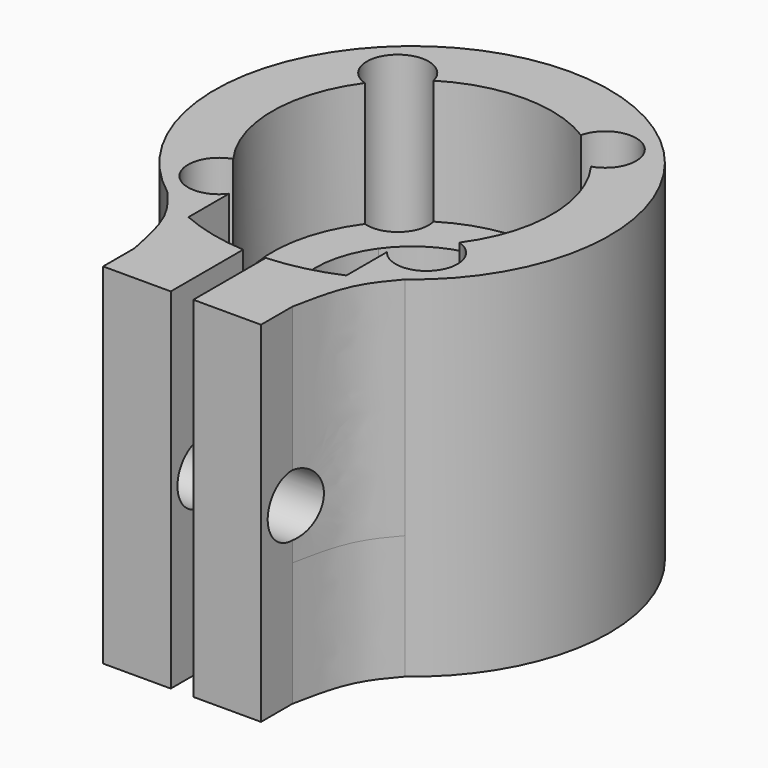
from build123d import *

# Parameters (mm, degrees)
F1_DEPTH      = 6.985
F2_DEPTH      = 12.7
F3_R          = 1.7399
F4_DEPTH      = 25.4
F4_DEPTH_BACK = 25.4


with BuildPart() as f1:
    # F0 (on Top) → F1 (new body)
    with BuildSketch(Plane.XY):
        with BuildLine():
            ThreePointArc((-6.6861946277, -8.8759482677), (-5.6039387911, -9.5960161669), (-4.445, -10.184774482))
            Line((-4.445, -10.184774482), (-4.445, -7.326322721))
            ThreePointArc((-4.445, -7.326322721), (-7.2583236845, -7.2997742217), (-6.3683207306, -4.6308063091))
            ThreePointArc((-6.3683207306, -4.6308063091), (-7.874, 0), (-6.3683207306, 4.6308063091))
            ThreePointArc((-6.3683207306, 4.6308063091), (-7.2583236845, 7.2997742217), (-4.445, 7.326322721))
            Line((-4.445, 7.326322721), (-4.445, 10.184774482))
            ThreePointArc((-4.445, 10.184774482), (-11.0364696074, 1.2976882733), (-6.6861946277, -8.8759482677))
        make_face()
        with BuildLine():
            Line((-0.635, 7.8483533942), (-0.635, 11.0943423081))
            ThreePointArc((-0.635, 11.0943423081), (-2.5803930723, 10.808756998), (-4.445, 10.184774482))
            Line((-4.445, 10.184774482), (-4.445, 7.326322721))
            ThreePointArc((-4.445, 7.326322721), (-4.264959614, 7.0241706334), (-4.149365906, 6.6919831573))
            ThreePointArc((-4.149365906, 6.6919831573), (-2.4610642641, 7.4795079175), (-0.635, 7.8483533942))
        make_face()
        with BuildLine():
            Line((4.445, 7.326322721), (4.445, 10.184774482))
            ThreePointArc((4.445, 10.184774482), (2.5803930723, 10.808756998), (0.635, 11.0943423081))
            Line((0.635, 11.0943423081), (0.635, 7.8483533942))
            ThreePointArc((0.635, 7.8483533942), (2.4610642641, 7.4795079175), (4.149365906, 6.6919831573))
            ThreePointArc((4.149365906, 6.6919831573), (4.264959614, 7.0241706334), (4.445, 7.326322721))
        make_face()
        with BuildLine():
            ThreePointArc((4.445, -10.184774482), (5.6039387911, -9.5960161669), (6.6861946277, -8.8759482677))
            ThreePointArc((6.6861946277, -8.8759482677), (9.9445460945, -4.959199454), (11.1125, 0))
            ThreePointArc((11.1125, 0), (9.2973845449, 6.0865669203), (4.445, 10.184774482))
            Line((4.445, 10.184774482), (4.445, 7.326322721))
            ThreePointArc((4.445, 7.326322721), (6.3881738322, 7.9411428381), (7.5819, 6.2891906127))
            ThreePointArc((7.5819, 6.2891906127), (7.2461006818, 5.2616920554), (6.3683207306, 4.6308063091))
            ThreePointArc((6.3683207306, 4.6308063091), (7.4881250468, 2.4347195493), (7.874, 0))
            ThreePointArc((7.874, 0), (7.4881250468, -2.4347195493), (6.3683207306, -4.6308063091))
            ThreePointArc((6.3683207306, -4.6308063091), (7.2461006818, -5.2616920554), (7.5819, -6.2891906127))
            ThreePointArc((7.5819, -6.2891906127), (6.3881738322, -7.9411428381), (4.445, -7.326322721))
            Line((4.445, -7.326322721), (4.445, -10.184774482))
        make_face()
        with BuildLine():
            Line((0.635, 7.8483533942), (0.635, 11.0943423081))
            ThreePointArc((0.635, 11.0943423081), (0, 11.1125), (-0.635, 11.0943423081))
            Line((-0.635, 11.0943423081), (-0.635, 7.8483533942))
            ThreePointArc((-0.635, 7.8483533942), (0, 7.874), (0.635, 7.8483533942))
        make_face()
        with BuildLine():
            Line((-4.445, -13.9827691019), (-4.445, -10.184774482))
            ThreePointArc((-4.445, -10.184774482), (-5.6039387911, -9.5960161669), (-6.6861946277, -8.8759482677))
            add(Edge.make_bspline(
                [(-6.6861946277, -8.8759482677), (-6.1885628089, -9.4638964345), (-5.0921901135, -10.7354953403), (-4.6739221939, -12.8428610165), (-4.445, -13.9827691019)],
                knots=[0, 0, 0, 0, 0.4582938074, 1, 1, 1, 1], degree=3))
        make_face()
        with BuildLine():
            Line((-0.635, -16.1925), (-0.635, -11.0943423081))
            ThreePointArc((-0.635, -11.0943423081), (-2.5803930723, -10.808756998), (-4.445, -10.184774482))
            Line((-4.445, -10.184774482), (-4.445, -13.9827691019))
            Line((-4.445, -13.9827691019), (-4.445, -16.1925))
            Line((-4.445, -16.1925), (-0.635, -16.1925))
        make_face()
        with BuildLine():
            Line((4.445, -13.9827691019), (4.445, -10.184774482))
            ThreePointArc((4.445, -10.184774482), (2.5803930723, -10.808756998), (0.635, -11.0943423081))
            Line((0.635, -11.0943423081), (0.635, -16.1925))
            Line((0.635, -16.1925), (4.445, -16.1925))
            Line((4.445, -16.1925), (4.445, -13.9827691019))
        make_face()
        with BuildLine():
            add(Edge.make_bspline(
                [(6.6861946277, -8.8759482677), (6.1885628089, -9.4638964345), (5.0921901135, -10.7354953403), (4.6739221939, -12.8428610165), (4.445, -13.9827691019)],
                knots=[0, 0, 0, 0, 0.4582938074, 1, 1, 1, 1], degree=3))
            ThreePointArc((6.6861946277, -8.8759482677), (5.6039387911, -9.5960161669), (4.445, -10.184774482))
            Line((4.445, -10.184774482), (4.445, -13.9827691019))
        make_face()
    extrude(amount=F1_DEPTH)

    # F0 (on Top) + F1_face (on face) → F2 (join)
    with BuildSketch(Plane.XY):
        with BuildLine():
            ThreePointArc((-6.3683207306, 4.6308063091), (-7.874, 0), (-6.3683207306, -4.6308063091))
            ThreePointArc((-6.3683207306, -4.6308063091), (-5.3072017482, -4.6335207061), (-4.445, -5.2520585045))
            Line((-4.445, -5.2520585045), (-4.445, -3.1724589832))
            ThreePointArc((-4.445, -3.1724589832), (-5.461, 0), (-4.445, 3.1724589832))
            Line((-4.445, 3.1724589832), (-4.445, 5.2520585045))
            ThreePointArc((-4.445, 5.2520585045), (-5.3072017482, 4.6335207061), (-6.3683207306, 4.6308063091))
        make_face()
        with BuildLine():
            Line((-0.635, 5.423955752), (-0.635, 7.8483533942))
            ThreePointArc((-0.635, 7.8483533942), (-2.4610642641, 7.4795079175), (-4.149365906, 6.6919831573))
            ThreePointArc((-4.149365906, 6.6919831573), (-4.113956877, 6.491968755), (-4.1021, 6.2891906127))
            ThreePointArc((-4.1021, 6.2891906127), (-4.1900477746, 5.7430167805), (-4.445, 5.2520585045))
            Line((-4.445, 5.2520585045), (-4.445, 3.1724589832))
            ThreePointArc((-4.445, 3.1724589832), (-2.7782925377, 4.7014478169), (-0.635, 5.423955752))
        make_face()
        with BuildLine():
            ThreePointArc((4.149365906, 6.6919831573), (2.4610642641, 7.4795079175), (0.635, 7.8483533942))
            Line((0.635, 7.8483533942), (0.635, 5.423955752))
            ThreePointArc((0.635, 5.423955752), (2.7782925377, 4.7014478169), (4.445, 3.1724589832))
            Line((4.445, 3.1724589832), (4.445, 5.2520585045))
            ThreePointArc((4.445, 5.2520585045), (4.1376510158, 5.9392669784), (4.149365906, 6.6919831573))
        make_face()
        with BuildLine():
            Line((4.445, -3.1724589832), (4.445, -5.2520585045))
            ThreePointArc((4.445, -5.2520585045), (5.3072017482, -4.6335207061), (6.3683207306, -4.6308063091))
            ThreePointArc((6.3683207306, -4.6308063091), (7.4881250468, -2.4347195493), (7.874, 0))
            ThreePointArc((7.874, 0), (7.4881250468, 2.4347195493), (6.3683207306, 4.6308063091))
            ThreePointArc((6.3683207306, 4.6308063091), (5.3072017482, 4.6335207061), (4.445, 5.2520585045))
            Line((4.445, 5.2520585045), (4.445, 3.1724589832))
            ThreePointArc((4.445, 3.1724589832), (5.2008011883, 1.6655893852), (5.461, 0))
            ThreePointArc((5.461, 0), (5.2008011883, -1.6655893852), (4.445, -3.1724589832))
        make_face()
        with BuildLine():
            Line((0.635, -5.423955752), (0.635, -7.8483533942))
            ThreePointArc((0.635, -7.8483533942), (2.4610642641, -7.4795079175), (4.149365906, -6.6919831573))
            ThreePointArc((4.149365906, -6.6919831573), (4.1376510158, -5.9392669784), (4.445, -5.2520585045))
            Line((4.445, -5.2520585045), (4.445, -3.1724589832))
            ThreePointArc((4.445, -3.1724589832), (2.7782925377, -4.7014478169), (0.635, -5.423955752))
        make_face()
        with BuildLine():
            ThreePointArc((-4.149365906, -6.6919831573), (-2.4610642641, -7.4795079175), (-0.635, -7.8483533942))
            Line((-0.635, -7.8483533942), (-0.635, -5.423955752))
            ThreePointArc((-0.635, -5.423955752), (-2.7782925377, -4.7014478169), (-4.445, -3.1724589832))
            Line((-4.445, -3.1724589832), (-4.445, -5.2520585045))
            ThreePointArc((-4.445, -5.2520585045), (-4.1900477746, -5.7430167805), (-4.1021, -6.2891906127))
            ThreePointArc((-4.1021, -6.2891906127), (-4.113956877, -6.491968755), (-4.149365906, -6.6919831573))
        make_face()
        with BuildLine():
            ThreePointArc((-4.445, -10.184774482), (-2.5803930723, -10.808756998), (-0.635, -11.0943423081))
            Line((-0.635, -11.0943423081), (-0.635, -7.8483533942))
            ThreePointArc((-0.635, -7.8483533942), (-2.4610642641, -7.4795079175), (-4.149365906, -6.6919831573))
            ThreePointArc((-4.149365906, -6.6919831573), (-4.264959614, -7.0241706334), (-4.445, -7.326322721))
            Line((-4.445, -7.326322721), (-4.445, -10.184774482))
        make_face()
        with BuildLine():
            ThreePointArc((0.635, -11.0943423081), (2.5803930723, -10.808756998), (4.445, -10.184774482))
            Line((4.445, -10.184774482), (4.445, -7.326322721))
            ThreePointArc((4.445, -7.326322721), (4.264959614, -7.0241706334), (4.149365906, -6.6919831573))
            ThreePointArc((4.149365906, -6.6919831573), (2.4610642641, -7.4795079175), (0.635, -7.8483533942))
            Line((0.635, -7.8483533942), (0.635, -11.0943423081))
        make_face()
        with BuildLine():
            ThreePointArc((4.445, -10.184774482), (5.6039387911, -9.5960161669), (6.6861946277, -8.8759482677))
            ThreePointArc((6.6861946277, -8.8759482677), (9.9445460945, -4.959199454), (11.1125, 0))
            ThreePointArc((11.1125, 0), (9.2973845449, 6.0865669203), (4.445, 10.184774482))
            Line((4.445, 10.184774482), (4.445, 7.326322721))
            ThreePointArc((4.445, 7.326322721), (6.3881738322, 7.9411428381), (7.5819, 6.2891906127))
            ThreePointArc((7.5819, 6.2891906127), (7.2461006818, 5.2616920554), (6.3683207306, 4.6308063091))
            ThreePointArc((6.3683207306, 4.6308063091), (7.4881250468, 2.4347195493), (7.874, 0))
            ThreePointArc((7.874, 0), (7.4881250468, -2.4347195493), (6.3683207306, -4.6308063091))
            ThreePointArc((6.3683207306, -4.6308063091), (7.2461006818, -5.2616920554), (7.5819, -6.2891906127))
            ThreePointArc((7.5819, -6.2891906127), (6.3881738322, -7.9411428381), (4.445, -7.326322721))
            Line((4.445, -7.326322721), (4.445, -10.184774482))
        make_face()
        with BuildLine():
            Line((4.445, 7.326322721), (4.445, 10.184774482))
            ThreePointArc((4.445, 10.184774482), (2.5803930723, 10.808756998), (0.635, 11.0943423081))
            Line((0.635, 11.0943423081), (0.635, 7.8483533942))
            ThreePointArc((0.635, 7.8483533942), (2.4610642641, 7.4795079175), (4.149365906, 6.6919831573))
            ThreePointArc((4.149365906, 6.6919831573), (4.264959614, 7.0241706334), (4.445, 7.326322721))
        make_face()
        with BuildLine():
            Line((-0.635, 7.8483533942), (-0.635, 11.0943423081))
            ThreePointArc((-0.635, 11.0943423081), (-2.5803930723, 10.808756998), (-4.445, 10.184774482))
            Line((-4.445, 10.184774482), (-4.445, 7.326322721))
            ThreePointArc((-4.445, 7.326322721), (-4.264959614, 7.0241706334), (-4.149365906, 6.6919831573))
            ThreePointArc((-4.149365906, 6.6919831573), (-2.4610642641, 7.4795079175), (-0.635, 7.8483533942))
        make_face()
        with BuildLine():
            ThreePointArc((-6.6861946277, -8.8759482677), (-5.6039387911, -9.5960161669), (-4.445, -10.184774482))
            Line((-4.445, -10.184774482), (-4.445, -7.326322721))
            ThreePointArc((-4.445, -7.326322721), (-7.2583236845, -7.2997742217), (-6.3683207306, -4.6308063091))
            ThreePointArc((-6.3683207306, -4.6308063091), (-7.874, 0), (-6.3683207306, 4.6308063091))
            ThreePointArc((-6.3683207306, 4.6308063091), (-7.2583236845, 7.2997742217), (-4.445, 7.326322721))
            Line((-4.445, 7.326322721), (-4.445, 10.184774482))
            ThreePointArc((-4.445, 10.184774482), (-11.0364696074, 1.2976882733), (-6.6861946277, -8.8759482677))
        make_face()
        with BuildLine():
            Line((0.635, 7.8483533942), (0.635, 11.0943423081))
            ThreePointArc((0.635, 11.0943423081), (0, 11.1125), (-0.635, 11.0943423081))
            Line((-0.635, 11.0943423081), (-0.635, 7.8483533942))
            ThreePointArc((-0.635, 7.8483533942), (0, 7.874), (0.635, 7.8483533942))
        make_face()
        with BuildLine():
            Line((0.635, 5.423955752), (0.635, 7.8483533942))
            ThreePointArc((0.635, 7.8483533942), (0, 7.874), (-0.635, 7.8483533942))
            Line((-0.635, 7.8483533942), (-0.635, 5.423955752))
            ThreePointArc((-0.635, 5.423955752), (0, 5.461), (0.635, 5.423955752))
        make_face()
    with BuildSketch(Plane(origin=(0, -1.8857820948, 6.985), x_dir=(1, 0, 0), z_dir=(0, 0, 1))):
        with BuildLine():
            ThreePointArc((-4.445, -5.4405406262), (-7.2583236845, -5.4139921269), (-6.3683207306, -2.7450242143))
            ThreePointArc((-6.3683207306, -2.7450242143), (-7.874, 1.8857820948), (-6.3683207306, 6.5165884039))
            ThreePointArc((-6.3683207306, 6.5165884039), (-7.0261385963, 9.4497541769), (-4.149365906, 8.5777652521))
            ThreePointArc((-4.149365906, 8.5777652521), (0, 9.7597820948), (4.149365906, 8.5777652521))
            ThreePointArc((4.149365906, 8.5777652521), (7.0261385963, 9.4497541769), (6.3683207306, 6.5165884039))
            ThreePointArc((6.3683207306, 6.5165884039), (7.874, 1.8857820948), (6.3683207306, -2.7450242143))
            ThreePointArc((6.3683207306, -2.7450242143), (7.2583236845, -5.4139921269), (4.445, -5.4405406262))
            Line((4.445, -5.4405406262), (4.445, -8.2989923872))
            ThreePointArc((4.445, -8.2989923872), (2.5803930723, -8.9229749032), (0.635, -9.2085602133))
            Line((0.635, -9.2085602133), (0.635, -14.3067179052))
            Line((0.635, -14.3067179052), (4.445, -14.3067179052))
            Line((4.445, -14.3067179052), (4.445, -12.0969870071))
            add(Edge.make_bspline(
                [(6.6861946277, -6.9901661729), (6.1885628089, -7.5781143397), (5.0921901135, -8.8497132455), (4.6739221939, -10.9570789217), (4.445, -12.0969870071)],
                knots=[0, 0, 0, 0, 0.4582938074, 1, 1, 1, 1], degree=3))
            ThreePointArc((6.6861946277, -6.9901661729), (0, 12.9982820948), (-6.6861946277, -6.9901661729))
            add(Edge.make_bspline(
                [(-6.6861946277, -6.9901661729), (-6.1885628089, -7.5781143397), (-5.0921901135, -8.8497132455), (-4.6739221939, -10.9570789217), (-4.445, -12.0969870071)],
                knots=[0, 0, 0, 0, 0.4582938074, 1, 1, 1, 1], degree=3))
            Line((-4.445, -12.0969870071), (-4.445, -14.3067179052))
            Line((-4.445, -14.3067179052), (-0.635, -14.3067179052))
            Line((-0.635, -14.3067179052), (-0.635, -9.2085602133))
            ThreePointArc((-0.635, -9.2085602133), (-2.5803930723, -8.9229749032), (-4.445, -8.2989923872))
            Line((-4.445, -8.2989923872), (-4.445, -5.4405406262))
        make_face()
    extrude(amount=F2_DEPTH)

    # F3 (on face) → F4 (cut, two sides)
    with BuildSketch(Plane.YZ.offset(4.445)) as f4_sk:
        with Locations((-13.9827691019, 9.8425)):
            Circle(F3_R)
    extrude(amount=-F4_DEPTH, mode=Mode.SUBTRACT)
    extrude(f4_sk.sketch, amount=F4_DEPTH_BACK, mode=Mode.SUBTRACT)


solid = f1.part
